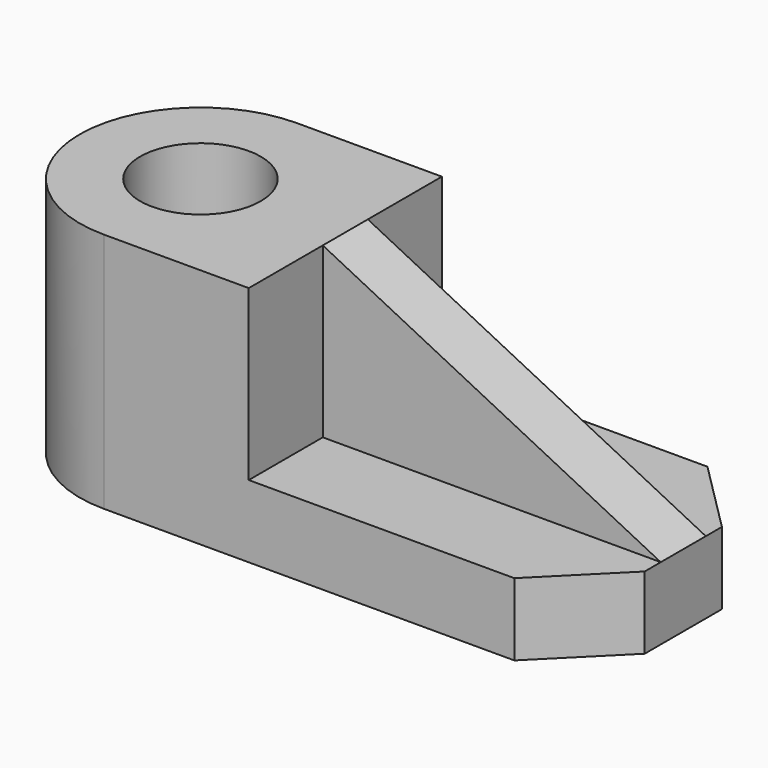
from build123d import *

# Parameters (mm, degrees)
F0_R     = 19.05
F1_DEPTH = 76.2
F2_DEPTH = 22.86
F3_DEPTH = 22.86
F0_W     = 106.68
F0_H     = 17.78
F4_DEPTH = 76.2
F6_DEPTH = 25.4


with BuildPart() as f1:
    # F0 (on Top) → F1 (new body)
    with BuildSketch(Plane.XY):
        with BuildLine():
            Line((-35.075523, 36.937616), (-80.795523, 36.937616))
            ThreePointArc((-80.795523, 36.937616), (-118.895523, -1.162384), (-80.795523, -39.262384))
            Line((-80.795523, -39.262384), (-35.075523, -39.262384))
            Line((-35.075523, -39.262384), (-35.075523, -10.052384))
            Line((-35.075523, -10.052384), (-35.075523, 7.727616))
            Line((-35.075523, 7.727616), (-35.075523, 36.937616))
        make_face()
        with Locations((-80.795523, -1.162384)):
            Circle(F0_R, mode=Mode.SUBTRACT)
    extrude(amount=F1_DEPTH)

    # F0 (on Top) → F2 (join)
    with BuildSketch(Plane.XY):
        Polygon((-35.075523, -10.052384), (-35.075523, -39.262384), (48.744477, -39.262384), (71.604477, -16.402384), (71.604477, -10.052384), align=None)
    extrude(amount=F2_DEPTH)

    # F0 (on Top) → F3 (join)
    with BuildSketch(Plane.XY):
        Polygon((48.744477, 36.937616), (-35.075523, 36.937616), (-35.075523, 7.727616), (71.604477, 7.727616), (71.604477, 14.077616), align=None)
    extrude(amount=F3_DEPTH)

    # F0 (on Top) → F4 (join)
    with BuildSketch(Plane.XY):
        with Locations((18.264477, -1.162384)):
            Rectangle(F0_W, F0_H)
    extrude(amount=F4_DEPTH)

    # F5 (on face) → F6 (cut)
    with BuildSketch(Plane.XZ.offset(10.052384)):
        Polygon((71.604477, 76.2), (-35.075523, 76.2), (71.604477, 22.86), align=None)
    extrude(amount=-F6_DEPTH, mode=Mode.SUBTRACT)


solid = f1.part
